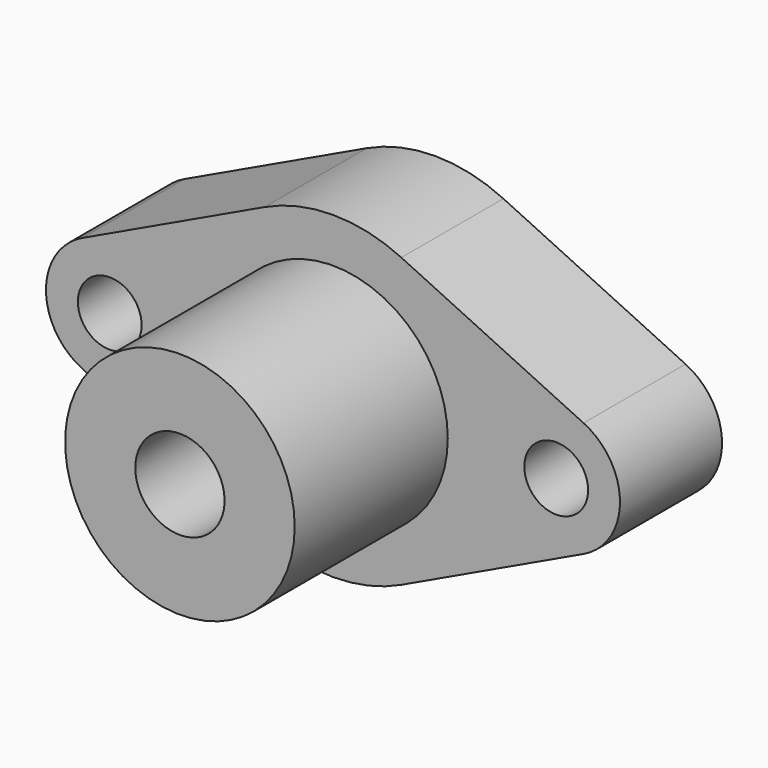
from build123d import *

# Parameters (mm, degrees)
F1_DEPTH = 20
F2_R     = 18
F3_DEPTH = 30
F6_D     = 10
F7_D     = 14
F7_DEPTH = 31
F7_TIP   = 4.2060243332


with BuildPart() as f1:
    # F0 (on Front) → F1 (new body)
    with BuildSketch(Plane.XZ):
        with BuildLine():
            Line((39.2857142857, 9.0350790291), (10.7142857143, 22.5876975726))
            ThreePointArc((10.7142857143, 22.5876975726), (0, 25), (-10.7142857143, 22.5876975726))
            Line((-10.7142857143, 22.5876975726), (-39.2857142857, 9.0350790291))
            ThreePointArc((-39.2857142857, 9.0350790291), (-45, 0), (-39.2857142857, -9.0350790291))
            Line((-39.2857142857, -9.0350790291), (-10.7142857143, -22.5876975726))
            ThreePointArc((-10.7142857143, -22.5876975726), (0, -25), (10.7142857143, -22.5876975726))
            Line((10.7142857143, -22.5876975726), (39.2857142857, -9.0350790291))
            ThreePointArc((39.2857142857, -9.0350790291), (45, 0), (39.2857142857, 9.0350790291))
        make_face()
    extrude(amount=F1_DEPTH)

    # F2 (on face) → F3 (join)
    with BuildSketch(Plane.XZ.offset(20)):
        Circle(F2_R)
    extrude(amount=F3_DEPTH)

    # F6 (through all)
    with Locations(Plane.XZ.offset(20)):
        with Locations((35, 0), (-35, 0)):
            Hole(F6_D / 2)

    # F7
    with Locations(Plane.XZ.offset(50)):
        with Locations((0, 0)):
            Hole(F7_D / 2, depth=F7_DEPTH)
            with Locations((0, 0, -(F7_DEPTH + F7_TIP / 2))):  # 118° drill point
                Cone(0, F7_D / 2, F7_TIP, mode=Mode.SUBTRACT)


solid = f1.part
